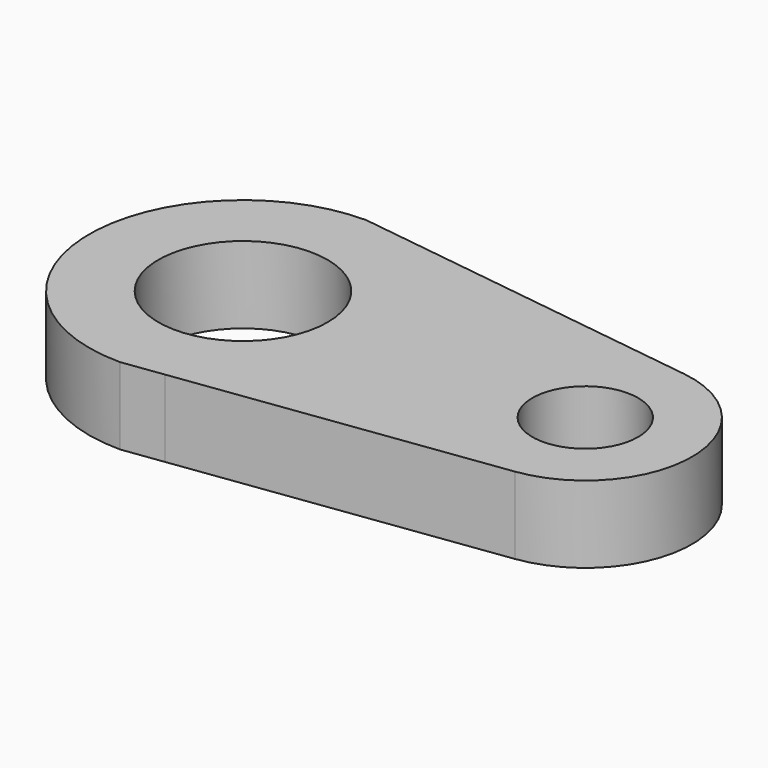
from build123d import *

# Parameters (mm, degrees)
F1_DEPTH = 4
F2_R     = 4.4
F2_R_2   = 2.75
F3_DEPTH = 4


with BuildPart() as f1:
    # F0 (on Top) → F1 (new body)
    with BuildSketch(Plane.XY):
        with BuildLine():
            Line((28.54154, 13.500238), (12.118604, 15.714371))
            Line((12.118604, 15.714371), (10, 16))
            ThreePointArc((10, 16), (2, 8), (10, 0))
            Line((10, 0), (12.118604, 0.285629))
            Line((12.118604, 0.285629), (28.54154, 2.499762))
            ThreePointArc((28.54154, 2.499762), (33.35, 8), (28.54154, 13.500238))
        make_face()
    extrude(amount=F1_DEPTH)

    # F2 (on face) → F3 (cut, through all)
    with BuildSketch(Plane.XY.offset(4)):
        with Locations((10, 8)):
            Circle(F2_R)
        with Locations((27.8, 8)):
            Circle(F2_R_2)
    extrude(amount=-F3_DEPTH, mode=Mode.SUBTRACT)


solid = f1.part
